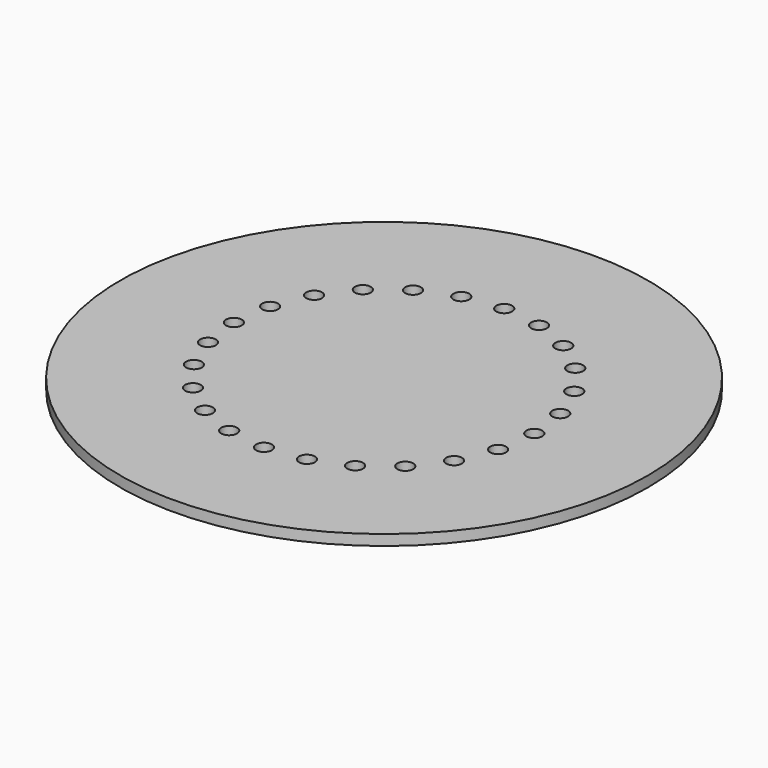
from build123d import *

# Parameters (mm, degrees)
F0_R     = 50
F0_R_2   = 1.5
F1_DEPTH = 2
F2_R     = 3
F3_DEPTH = 1.5


with BuildPart() as f1:
    # F0 (on Top) → F1 (new body)
    with BuildSketch(Plane.XY):
        Circle(F0_R)
        with Locations((-7.363402, -27.48059)):
            Circle(F0_R_2, mode=Mode.SUBTRACT)
        with Locations((-27.48059, -7.363402)):
            Circle(F0_R_2, mode=Mode.SUBTRACT)
        with Locations((-20.117188, -20.117188)):
            Circle(F0_R_2, mode=Mode.SUBTRACT)
        with Locations((-14.225, -24.638423)):
            Circle(F0_R_2, mode=Mode.SUBTRACT)
        with Locations((-24.638423, -14.225)):
            Circle(F0_R_2, mode=Mode.SUBTRACT)
        with Locations((0, -28.45)):
            Circle(F0_R_2, mode=Mode.SUBTRACT)
        with Locations((7.363402, -27.48059)):
            Circle(F0_R_2, mode=Mode.SUBTRACT)
        with Locations((14.225, -24.638423)):
            Circle(F0_R_2, mode=Mode.SUBTRACT)
        with Locations((20.117188, -20.117188)):
            Circle(F0_R_2, mode=Mode.SUBTRACT)
        with Locations((24.638423, -14.225)):
            Circle(F0_R_2, mode=Mode.SUBTRACT)
        with Locations((27.48059, -7.363402)):
            Circle(F0_R_2, mode=Mode.SUBTRACT)
        with Locations((-28.45, 0)):
            Circle(F0_R_2, mode=Mode.SUBTRACT)
        with Locations((-27.48059, 7.363402)):
            Circle(F0_R_2, mode=Mode.SUBTRACT)
        with Locations((-24.638423, 14.225)):
            Circle(F0_R_2, mode=Mode.SUBTRACT)
        with Locations((-20.117188, 20.117188)):
            Circle(F0_R_2, mode=Mode.SUBTRACT)
        with Locations((-14.225, 24.638423)):
            Circle(F0_R_2, mode=Mode.SUBTRACT)
        with Locations((-7.363402, 27.48059)):
            Circle(F0_R_2, mode=Mode.SUBTRACT)
        with Locations((24.638423, 14.225)):
            Circle(F0_R_2, mode=Mode.SUBTRACT)
        with Locations((14.225, 24.638423)):
            Circle(F0_R_2, mode=Mode.SUBTRACT)
        with Locations((20.117188, 20.117188)):
            Circle(F0_R_2, mode=Mode.SUBTRACT)
        with Locations((28.45, 0)):
            Circle(F0_R_2, mode=Mode.SUBTRACT)
        with Locations((27.48059, 7.363402)):
            Circle(F0_R_2, mode=Mode.SUBTRACT)
        with Locations((0, 28.45)):
            Circle(F0_R_2, mode=Mode.SUBTRACT)
        with Locations((7.363402, 27.48059)):
            Circle(F0_R_2, mode=Mode.SUBTRACT)
    extrude(amount=F1_DEPTH)

    # F2 (on face) → F3 (join)
    with BuildSketch(Plane(origin=(0, 0, 0), x_dir=(1, 0, 0), z_dir=(0, 0, -1))):
        with Locations((0, 42)):
            Circle(F2_R)
        with Locations((42, 0)):
            Circle(F2_R)
    extrude(amount=F3_DEPTH)


solid = f1.part
